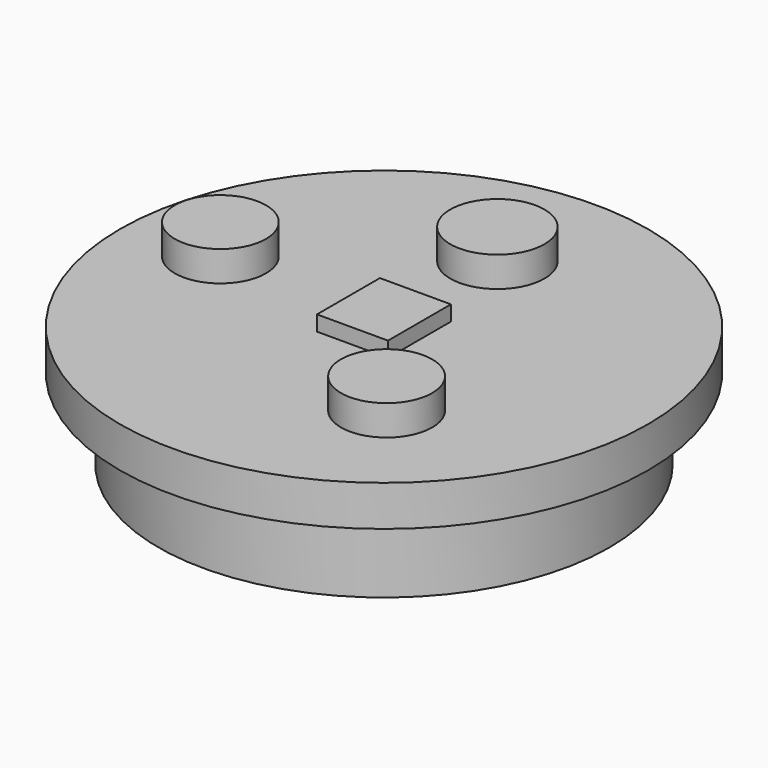
from build123d import *

# Parameters (mm, degrees)
F0_R     = 10.414
F1_DEPTH = 1.6
F2_R     = 8.89
F3_DEPTH = 3.175
F4_R     = 1.856091
F4_R_2   = 1.80108
F4_R_3   = 1.799605
F5_DEPTH = 1.1938
F6_W     = 2.8
F6_H     = 3.1
F7_DEPTH = 0.6


with BuildPart() as f1:
    # F0 (on Top) → F1 (new body)
    with BuildSketch(Plane.XY):
        Circle(F0_R)
    extrude(amount=F1_DEPTH)

    # F2 (on face) → F3 (join)
    with BuildSketch(Plane(origin=(0, 0, 0), x_dir=(1, 0, 0), z_dir=(0, 0, -1))):
        Circle(F2_R)
    extrude(amount=F3_DEPTH)

    # F4 (on face) → F5 (join)
    with BuildSketch(Plane.XY.offset(1.6)):
        with Locations((0, 5.588)):
            Circle(F4_R)
        with Locations((3.556, -4.318)):
            Circle(F4_R_2)
        with Locations((-6.858, 0.508)):
            Circle(F4_R_3)
    extrude(amount=F5_DEPTH)

    # F6 (on face) → F7 (join)
    with BuildSketch(Plane.XY.offset(1.6)):
        with Locations((-0.003, 0.0006)):
            Rectangle(F6_W, F6_H)
    extrude(amount=F7_DEPTH)


solid = f1.part
